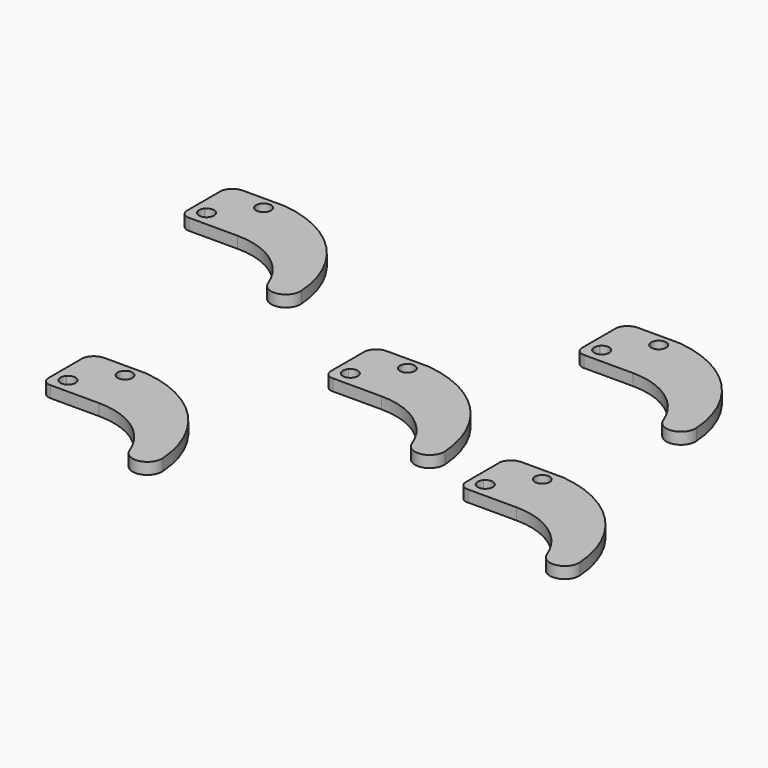
from build123d import *

# Parameters (mm, degrees)
F2_DEPTH = 1.778
F0_R     = 1.140565
F3_DEPTH = 1.778


with BuildPart() as f2:
    # F1 (on Top) → F2 (new body)
    with BuildSketch(Plane.XY):
        with BuildLine():
            ThreePointArc((19.31331, -11.373956), (14.538702, -0.601773), (3.975693, 4.619301))
            Line((3.975693, 4.619301), (-2.479243, 4.619301))
            ThreePointArc((-2.479243, 4.619301), (-3.754183, 4.173117), (-4.472679, 3.029299))
            Line((-4.472679, 3.029299), (-4.472679, -3.662951))
            ThreePointArc((-4.472679, -3.662951), (-4.064994, -4.61139), (-3.096259, -4.968177))
            Line((-3.096259, -4.968177), (4.381376, -4.968177))
            ThreePointArc((4.381376, -4.968177), (10.813721, -6.986158), (14.940618, -12.316826))
            ThreePointArc((14.940618, -12.316826), (17.535621, -13.740592), (19.31331, -11.373956))
        make_face()
    extrude(amount=F2_DEPTH)

    # F0 (on Top) → F3 (cut, through all)
    with BuildSketch(Plane.XY):
        with BuildLine():
            Line((-3.153326, -1.917056), (-3.129549, -1.889173))
            ThreePointArc((-3.129549, -1.889173), (-3.141548, -1.90302), (-3.153326, -1.917056))
        make_face()
        with BuildLine():
            ThreePointArc((-1.112859, -2.650549), (-1.858013, -1.572735), (-3.129549, -1.889173))
            Line((-3.129549, -1.889173), (-3.153326, -1.917056))
            ThreePointArc((-3.153326, -1.917056), (-3.030659, -3.511315), (-1.432963, -3.447478))
            Line((-1.432963, -3.447478), (-1.34699, -3.346718))
            ThreePointArc((-1.34699, -3.346718), (-1.172959, -3.017792), (-1.112859, -2.650549))
        make_face()
        with BuildLine():
            Line((-1.34699, -3.346718), (-1.432963, -3.447478))
            ThreePointArc((-1.432963, -3.447478), (-1.388527, -3.398335), (-1.34699, -3.346718))
        make_face()
        with Locations((2.267825, 2.664746)):
            Circle(F0_R)
    extrude(amount=F3_DEPTH, mode=Mode.SUBTRACT)


with BuildPart() as f4_1:
    # F4: copy of F2
    add(f2.part.moved(Location((23.368, 0, 0))))


with BuildPart() as f5_1:
    # F5: copy of F2
    add(f2.part.moved(Location((0, 22.352, 0))))


with BuildPart() as f6_1:
    # F6: copy of F2
    add(f2.part.moved(Location((-27.686, 0, 0))))


with BuildPart() as f7_1:
    # F7: copy of F2
    add(f2.part.moved(Location((0, -28.448, 0))))


with BuildPart() as f9_1:
    # F9: copy of F2
    add(f2.part.moved(Location((30.734, -12.446, 0))))


with BuildPart() as f10_1:
    # F10: copy of F2
    add(f2.part.moved(Location((19.812, 23.622, 0))))


with BuildPart() as f11_1:
    # F11: copy of F2
    add(f2.part.moved(Location((-39.624, 21.844, 0))))


with BuildPart() as f12_1:
    # F12: copy of F2
    add(f2.part.moved(Location((-25.4, -22.606, 0))))


solid = Compound([f2.part, f9_1.part, f10_1.part, f11_1.part, f12_1.part])
